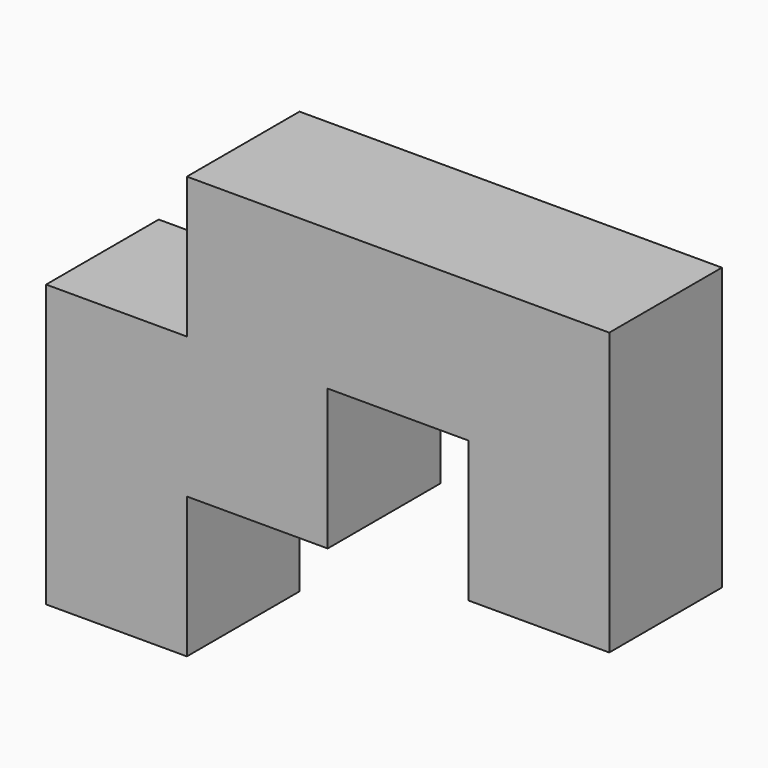
from build123d import *

# Parameters (mm, degrees)
F0_W     = 12.7
F0_H     = 12.7
F1_DEPTH = 12.7


with BuildPart() as f1:
    # F0 (on Front) → F1 (new body)
    with BuildSketch(Plane.XZ):
        with Locations((-56.081001, 30.154297)):
            Rectangle(F0_W, F0_H)
        with Locations((-56.081001, 42.854297)):
            Rectangle(F0_W, F0_H)
        with Locations((-43.381001, 42.854297)):
            Rectangle(F0_W, F0_H)
        with Locations((-43.381001, 55.554297)):
            Rectangle(F0_W, F0_H)
        with Locations((-30.681001, 55.554297)):
            Rectangle(F0_W, F0_H)
        with Locations((-17.981001, 55.554297)):
            Rectangle(F0_W, F0_H)
        with Locations((-17.981001, 42.854297)):
            Rectangle(F0_W, F0_H)
    extrude(amount=-F1_DEPTH)


solid = f1.part
